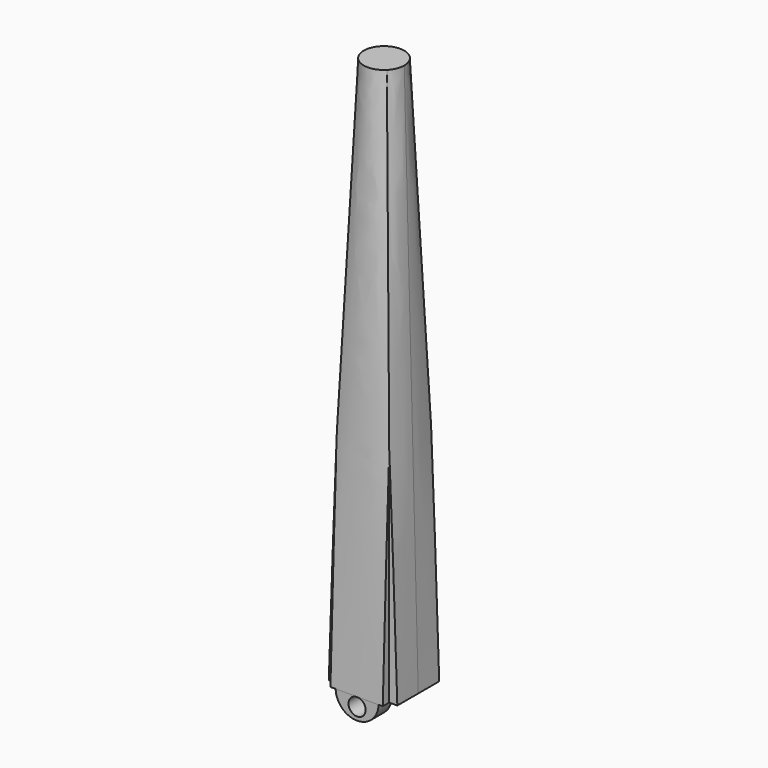
from build123d import *

# Parameters (mm, degrees)
F0_W      = 12.7
F0_H      = 12.7
F2_R      = 3.75
F4_R      = 3.9736903639
F4_R_2    = 1.5875
F5_DEPTH  = 6.2357
F6_DEPTH  = 3.175
F7_R      = 1.3346811
F7_R_2    = 0.9618488341
F7_R_3    = 1.0716670116
F8_DEPTH  = 25
F9_W      = 1.5
F9_H      = 1.5
F10_DEPTH = 200


with BuildPart() as f3:
    # F0 (on Top) → F3 section 0
    with BuildSketch(Plane.XY):
        Rectangle(F0_W, F0_H)
    # F2 (on offset) → F3 section 1
    with BuildSketch(Plane.XY.offset(101.6)):
        Circle(F2_R)
    loft()

    # F4 (on Front) → F5 (join)
    with BuildSketch(Plane.XZ):
        Circle(F4_R)
        with Locations((0, -1.7049389725)):
            Circle(F4_R_2, mode=Mode.SUBTRACT)
    extrude(amount=F5_DEPTH)

    # F6 (cut): a face of the model
    f6_faces = [f3.faces().sort_by_distance(p)[0] for p in [
        (0, 0, -3.8848359461),
    ]]
    extrude(f6_faces, amount=-F6_DEPTH, mode=Mode.SUBTRACT)

    # F7 (on Front) → F8 (cut)
    with BuildSketch(Plane.XZ):
        Polygon((-4.1892249137, 43.2891186792), (-0.7650959888, 43.2891186792), (0.7650959888, 43.2891186792), (4.1892249137, 43.2891186792), (4.1892249137, 44.6343121585), (0.7650959888, 44.6343121585), (-0.7650959888, 44.6343121585), (-4.1892249137, 44.6343121585), align=None)
        with BuildLine():
            Line((-0.7650959888, 38.6420858558), (-0.7650959888, 38.5048423799))
            ThreePointArc((-0.7650959888, 38.5048423799), (0, 38.6420858558), (0.7650959888, 38.5048423799))
            Line((0.7650959888, 38.5048423799), (0.7650959888, 38.6420858558))
            Line((0.7650959888, 38.6420858558), (0.7650959888, 43.2891186792))
            Line((0.7650959888, 43.2891186792), (-0.7650959888, 43.2891186792))
            Line((-0.7650959888, 43.2891186792), (-0.7650959888, 38.6420858558))
        make_face()
        with BuildLine():
            ThreePointArc((-0.7650959888, 38.5048423799), (-2.2012253758, 36.4408604801), (-0.7650959888, 34.3768785802))
            ThreePointArc((-0.7650959888, 34.3768785802), (0, 34.2396351043), (0.7650959888, 34.3768785802))
            ThreePointArc((0.7650959888, 34.3768785802), (1.8068677124, 35.1836324877), (2.2012253758, 36.4408604801))
            ThreePointArc((2.2012253758, 36.4408604801), (1.8068677124, 37.6980884724), (0.7650959888, 38.5048423799))
            ThreePointArc((0.7650959888, 38.5048423799), (0, 38.6420858558), (-0.7650959888, 38.5048423799))
        make_face()
        with BuildLine():
            Line((-0.7650959888, 34.3768785802), (-0.7650959888, 31.1788730323))
            Line((-0.7650959888, 31.1788730323), (0.7650959888, 31.1788730323))
            Line((0.7650959888, 31.1788730323), (0.7650959888, 34.3768785802))
            ThreePointArc((0.7650959888, 34.3768785802), (0, 34.2396351043), (-0.7650959888, 34.3768785802))
        make_face()
        Polygon((-1.5204012161, 31.1788730323), (-0.7650959888, 29.6973893871), (0, 28.19670178), (0.7650959888, 29.6793544711), (1.5388953034, 31.1788730323), (0.7650959888, 31.1788730323), (-0.7650959888, 31.1788730323), align=None)
        Polygon((-0.7650959888, 22.6504579186), (-0.7650959888, 17.4503540168), (0, 18.951041624), (0.7650959888, 17.4683889328), (0.7650959888, 22.6504579186), (1.7669015797, 22.6504579186), (1.7669015797, 23.573871702), (1.7669015797, 24.4972854853), (0.7650959888, 24.4972854853), (0.7650959888, 29.6793544711), (0, 28.19670178), (-0.7650959888, 29.6973893871), (-0.7650959888, 24.4972854853), (-1.7669015797, 24.4972854853), (-1.7669015797, 23.573871702), (-1.7669015797, 22.6504579186), align=None)
        Polygon((-1.5204012161, 15.9688703716), (-0.7650959888, 15.9688703716), (0.7650959888, 15.9688703716), (1.5388953034, 15.9688703716), (0.7650959888, 17.4683889328), (0, 18.951041624), (-0.7650959888, 17.4503540168), align=None)
        with BuildLine():
            Line((-0.7650959888, 15.9688703716), (-0.7650959888, 12.7708648237))
            ThreePointArc((-0.7650959888, 12.7708648237), (0, 12.9081082996), (0.7650959888, 12.7708648237))
            Line((0.7650959888, 12.7708648237), (0.7650959888, 15.9688703716))
            Line((0.7650959888, 15.9688703716), (-0.7650959888, 15.9688703716))
        make_face()
        with BuildLine():
            ThreePointArc((-0.7650959888, 12.7708648237), (-2.2012253758, 10.7068829238), (-0.7650959888, 8.642901024))
            ThreePointArc((-0.7650959888, 8.642901024), (0, 8.5056575481), (0.7650959888, 8.642901024))
            ThreePointArc((0.7650959888, 8.642901024), (1.8068677124, 9.4496549315), (2.2012253758, 10.7068829238))
            ThreePointArc((2.2012253758, 10.7068829238), (1.8068677124, 11.9641109162), (0.7650959888, 12.7708648237))
            ThreePointArc((0.7650959888, 12.7708648237), (0, 12.9081082996), (-0.7650959888, 12.7708648237))
        make_face()
        with BuildLine():
            Line((-0.7650959888, 8.5056575481), (-0.7650959888, 3.8586247247))
            Line((-0.7650959888, 3.8586247247), (0.7650959888, 3.8586247247))
            Line((0.7650959888, 3.8586247247), (0.7650959888, 8.5056575481))
            Line((0.7650959888, 8.5056575481), (0.7650959888, 8.642901024))
            ThreePointArc((0.7650959888, 8.642901024), (0, 8.5056575481), (-0.7650959888, 8.642901024))
            Line((-0.7650959888, 8.642901024), (-0.7650959888, 8.5056575481))
        make_face()
        Polygon((-0.7650959888, 3.8586247247), (-4.1892249137, 3.8586247247), (-4.1892249137, 2.5134312455), (4.1892249137, 2.5134312455), (4.1892249137, 3.8586247247), (0.7650959888, 3.8586247247), align=None)
        Polygon((-0.7650959888, 52.0429611206), (-0.7650959888, 44.6343121585), (0.7650959888, 44.6343121585), (0.7650959888, 52.0429611206), (2.2533938754, 52.0429611206), (0, 64.0411823988), (-2.0407063421, 52.0429611206), align=None)
        with BuildLine():
            add(Edge.make_bspline(
                [(0, 68.9970329404), (0.0780173481, 69.7445391478), (0.2573921983, 71.4631801586), (-1.2665490913, 75.4631799394), (-3.5251931913, 77.0419854289), (-2.7767420764, 80.5550785095), (0.9879072982, 82.6160666663), (-1.3279487532, 84.780700126), (-1.5149091523, 87.0301905195), (0.3175817511, 89.6848766386), (0.2068991953, 92.4317836587), (-1.4639209931, 96.1164767711), (-2.2911701196, 98.9660797189), (-0.7400874432, 99.5278085428), (0, 99.79583323)],
                knots=[0, 0, 0, 0, 0.0775411368, 0.1782799614, 0.2568274076, 0.3436892859, 0.4354932037, 0.5100337168, 0.5825212833, 0.6687466619, 0.7495888164, 0.851070594, 0.9289394531, 1, 1, 1, 1], degree=3))
            add(Edge.make_bspline(
                [(0, 68.9970329404), (1.2951545185, 70.3692470244), (4.1097907097, 73.3513494436), (-4.6783039199, 78.07662031), (3.140129427, 83.2998443386), (-1.3320685583, 87.3036243524), (2.5698690099, 91.6310902719), (-0.4192734909, 97.1434844584), (-0.1200430386, 99.0364339047), (0, 99.79583323)],
                knots=[0, 0, 0, 0, 0.1409611224, 0.3063374069, 0.466726524, 0.5979624563, 0.739281387, 0.8954068535, 1, 1, 1, 1], degree=3))
        make_face()
        with Locations((0, 78.1437084079)):
            Circle(F7_R)
        with Locations((1.6033323482, 87.7422839403)):
            Circle(F7_R_2)
        with Locations((-1.2383515714, 91.4680510759)):
            Circle(F7_R_3)
    extrude(amount=-F8_DEPTH, mode=Mode.SUBTRACT)

    # F9 (on face) → F10 (cut)
    with BuildSketch(Plane(origin=(0, 0, 0), x_dir=(1, 0, 0), z_dir=(0, 0, -1))):
        with Locations((5.6, 5.6)):
            Rectangle(F9_W, F9_H)
        with Locations((-5.6, 5.6)):
            Rectangle(F9_W, F9_H)
        with Locations((-5.6, -5.6)):
            Rectangle(F9_W, F9_H)
        with Locations((5.6, -5.6)):
            Rectangle(F9_W, F9_H)
    extrude(amount=-F10_DEPTH, mode=Mode.SUBTRACT)


solid = f3.part
